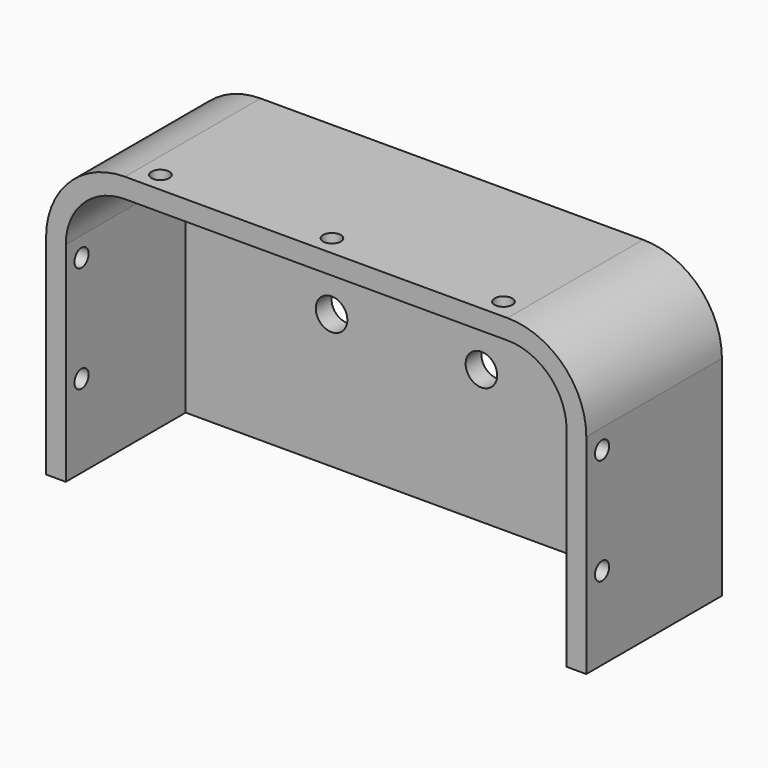
from build123d import *

# Parameters (mm, degrees)
F0_W     = 137
F0_H     = 73
F0_R     = 4
F1_DEPTH = 5
F3_DEPTH = 38
F5_R     = 2.25
F6_DEPTH = 137.001
F7_R     = 2.25
F8_DEPTH = 5
F9_R     = 15
F10_R    = 20


with BuildPart() as f1:
    # F0 (on Front) → F1 (new body)
    with BuildSketch(Plane.XZ):
        with Locations((-11.5, 46.109202)):
            Rectangle(F0_W, F0_H)
        with Locations((-38, 43.609202)):
            Circle(F0_R, mode=Mode.SUBTRACT)
        with Locations((0, 43.609202)):
            Circle(F0_R, mode=Mode.SUBTRACT)
        with Locations((38, 43.609202)):
            Circle(F0_R, mode=Mode.SUBTRACT)
    extrude(amount=F1_DEPTH)

    # F2 (on face) → F3 (join)
    with BuildSketch(Plane.XZ.offset(5)):
        Polygon((-80, 82.609202), (-80, 9.609202), (-75, 9.609202), (-75, 34.583051), (-75, 77.609202), (52, 77.609202), (52, 9.609202), (57, 9.609202), (57, 82.609202), align=None)
    extrude(amount=F3_DEPTH)

    # F5 (on face) → F6 (cut, through all)
    with BuildSketch(Plane(origin=(-80, 0, 0), x_dir=(0, -1, 0), z_dir=(-1, 0, 0))):
        with Locations((38, 57.609202)):
            Circle(F5_R)
        with Locations((38, 30.609202)):
            Circle(F5_R)
    extrude(amount=-F6_DEPTH, mode=Mode.SUBTRACT)

    # F7 (on face) → F8 (cut, through all)
    with BuildSketch(Plane.XY.offset(82.609202)):
        with Locations((-55, -38)):
            Circle(F7_R)
        with Locations((-11.5, -38)):
            Circle(F7_R)
        with Locations((32, -38)):
            Circle(F7_R)
    extrude(amount=-F8_DEPTH, mode=Mode.SUBTRACT)

    # F9
    f9_edges = [f1.edges().sort_by_distance(p)[0] for p in [
        (-75, -24, 77.609202),
        (52, -24, 77.609202),
    ]]
    fillet(f9_edges, radius=F9_R)

    # F10
    f10_edges = [f1.edges().sort_by_distance(p)[0] for p in [
        (-80, -21.5, 82.609202),
        (57, -21.5, 82.609202),
    ]]
    fillet(f10_edges, radius=F10_R)


solid = f1.part
